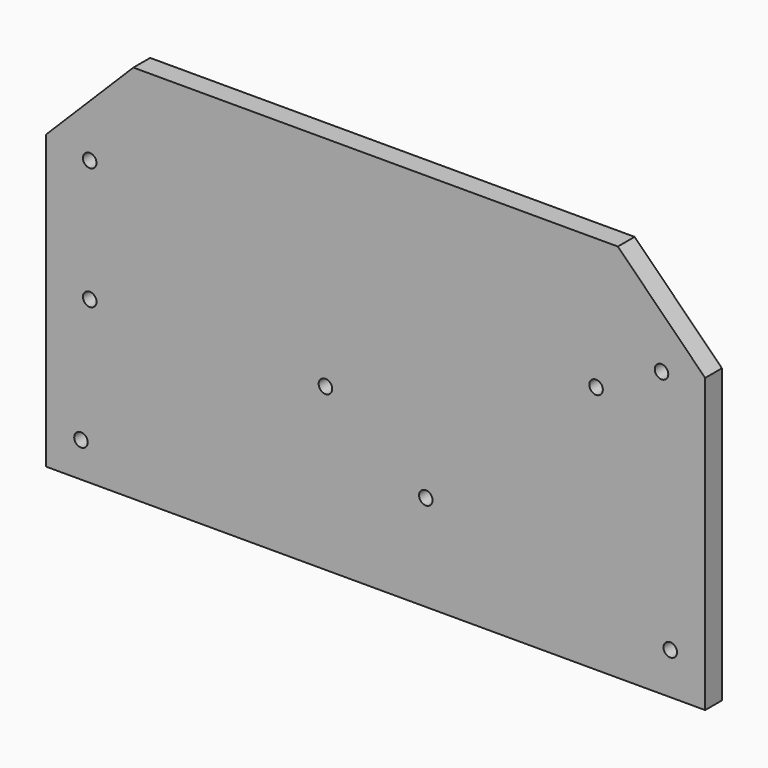
from build123d import *

# Parameters (mm, degrees)
F0_W     = 151
F0_H     = 87
F1_DEPTH = 4.8
F2_R     = 1.55
F3_DEPTH = 4.8
F4_DEPTH = 4.8
F5_SIZE  = 20
F6_SIZE  = 20


with BuildPart() as f1:
    # F0 (on Front) → F1 (new body)
    with BuildSketch(Plane.XZ):
        Rectangle(F0_W, F0_H)
    extrude(amount=F1_DEPTH)

    # F2 (on face) → F3 (cut)
    with BuildSketch(Plane.XZ.offset(4.8)):
        with Locations((-65.5, -6.5)):
            Circle(F2_R)
    extrude(amount=-F3_DEPTH, mode=Mode.SUBTRACT)

    # F2 (on face) → F4 (cut)
    with BuildSketch(Plane.XZ.offset(4.8)):
        with Locations((-65.5, 21.5)):
            Circle(F2_R)
        with Locations((65.5, 21.5)):
            Circle(F2_R)
        with Locations((-67.5, -35.5)):
            Circle(F2_R)
        with Locations((67.5, -33.95)):
            Circle(F2_R)
        with Locations((50.5, 13.5)):
            Circle(F2_R)
        with Locations((11.5, -21.5)):
            Circle(F2_R)
        with Locations((-65.5, -6.5)):
            Circle(F2_R)
        with Locations((-11.5, -6.5)):
            Circle(F2_R)
    extrude(amount=-F4_DEPTH, mode=Mode.SUBTRACT)

    # F5
    f5_edges = [f1.edges().sort_by_distance(p)[0] for p in [
        (-75.5, -2.4, 43.5),
    ]]
    chamfer(f5_edges, length=F5_SIZE)

    # F6
    f6_edges = [f1.edges().sort_by_distance(p)[0] for p in [
        (75.5, -2.4, 43.5),
    ]]
    chamfer(f6_edges, length=F6_SIZE)


solid = f1.part
